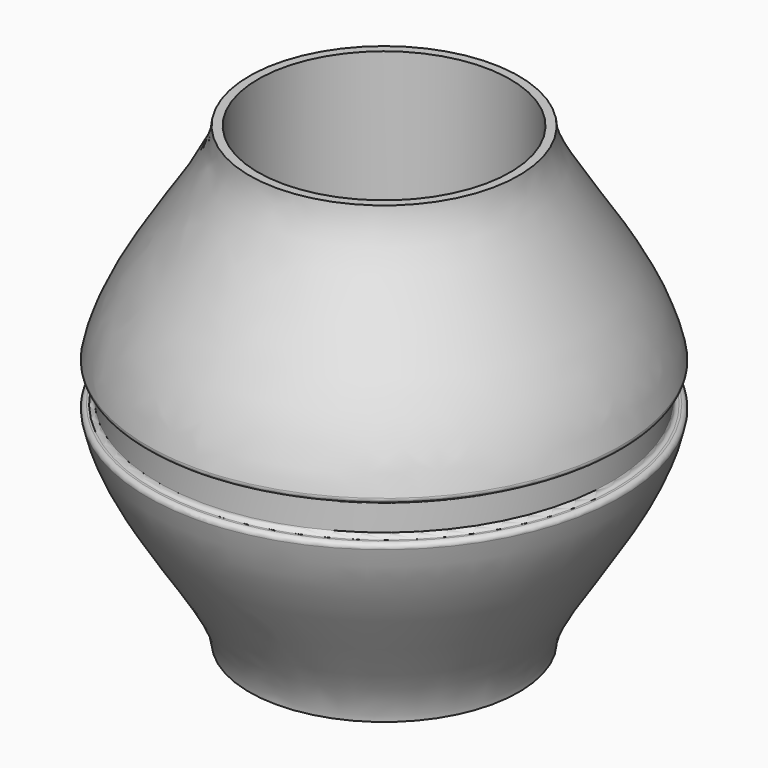
from build123d import *

# Parameters (mm, degrees)
F2_R = 0.5


with BuildPart() as f1:
    # F0 (on Right) → F1 (revolve)
    with BuildSketch(Plane.YZ):
        Polygon((-14.5, -26.15), (-14.5, 26.15), (-15.5, 26.15), (-15.5, 0), (-15.5, -26.15), align=None)
        with BuildLine():
            Line((-15.5, 0), (-15.5, 26.15))
            add(Edge.make_bspline(
                [(-15.5, 26.15), (-15.5, 21.031832), (-25.891659, 11.020925), (-27.334521, 2)],
                knots=[0, 0, 0, 0, 26.774443, 26.774443, 26.774443, 26.774443], degree=3))
            Line((-27.334521, 2), (-26.5, 2))
            ThreePointArc((-26.5, 2), (-26.146447, 1.853553), (-26, 1.5))
            Line((-26, 1.5), (-26, 0))
            Line((-26, 0), (-15.5, 0))
        make_face()
        with BuildLine():
            Line((-15.5, -26.15), (-15.5, 0))
            Line((-15.5, 0), (-26, 0))
            Line((-26, 0), (-26, -1.5))
            ThreePointArc((-26, -1.5), (-26.146447, -1.853553), (-26.5, -2))
            Line((-26.5, -2), (-27.334521, -2))
            add(Edge.make_bspline(
                [(-27.334521, -2), (-25.891659, -11.020925), (-15.5, -21.031832), (-15.5, -26.15)],
                knots=[1.997462, 1.997462, 1.997462, 1.997462, 28.771905, 28.771905, 28.771905, 28.771905], degree=3))
        make_face()
    revolve(axis=Axis((0, 0, 1.302367), (0, 0, -1)))

    # F2
    f2_edges = [f1.edges().sort_by_distance(p)[0] for p in [
        (0, 27.334521, -2),
        (0, 27.334521, 2),
    ]]
    fillet(f2_edges, radius=F2_R)


solid = f1.part
